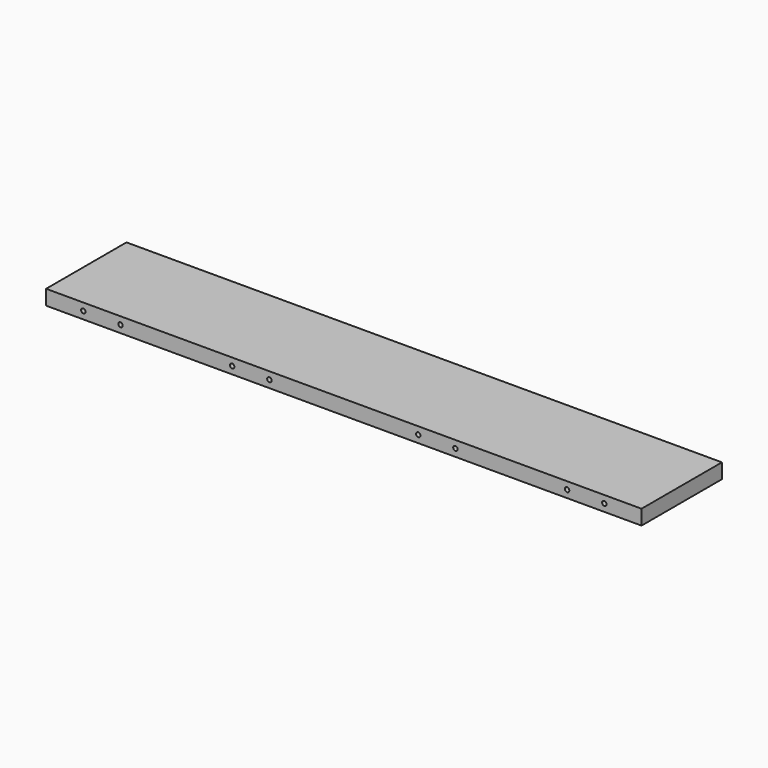
from build123d import *

# Parameters (mm, degrees)
F0_W     = 800
F0_H     = 135
F1_DEPTH = 10
F3_D     = 6
F3_DEPTH = 25
F3_TIP   = 1.8025818571
F5_D     = 3.5
F5_DEPTH = 5
F5_TIP   = 1.0515060833
F6_D     = 3.5
F6_DEPTH = 5
F6_TIP   = 1.0515060833


with BuildPart() as f1:
    # F0 (on Top) → F1 (new body, symmetric)
    with BuildSketch(Plane.XY):
        Rectangle(F0_W, F0_H)
    extrude(amount=F1_DEPTH, both=True)

    # F3
    with Locations(Plane.XZ.offset(67.5)):
        with Locations((-350, 0), (-300, 0), (-150, 0), (-100, 0), (100, 0), (150, 0), (300, 0), (350, 0)):
            Hole(F3_D / 2, depth=F3_DEPTH)
            with Locations((0, 0, -(F3_DEPTH + F3_TIP / 2))):  # 118° drill point
                Cone(0, F3_D / 2, F3_TIP, mode=Mode.SUBTRACT)

    # F5
    with Locations(Plane(origin=(0, 0, -10), x_dir=(1, 0, 0), z_dir=(0, 0, -1))):
        with Locations((-330, 5), (-330, -5), (-320, 0), (-230, 5), (-230, -5), (-220, 0)):
            Hole(F5_D / 2, depth=F5_DEPTH)
            with Locations((0, 0, -(F5_DEPTH + F5_TIP / 2))):  # 118° drill point
                Cone(0, F5_D / 2, F5_TIP, mode=Mode.SUBTRACT)

    # F6
    with Locations(Plane(origin=(0, 0, -10), x_dir=(1, 0, 0), z_dir=(0, 0, -1))):
        with Locations((220, 0), (230, -5), (230, 5), (320, 0), (330, 5), (330, -5)):
            Hole(F6_D / 2, depth=F6_DEPTH)
            with Locations((0, 0, -(F6_DEPTH + F6_TIP / 2))):  # 118° drill point
                Cone(0, F6_D / 2, F6_TIP, mode=Mode.SUBTRACT)


solid = f1.part
